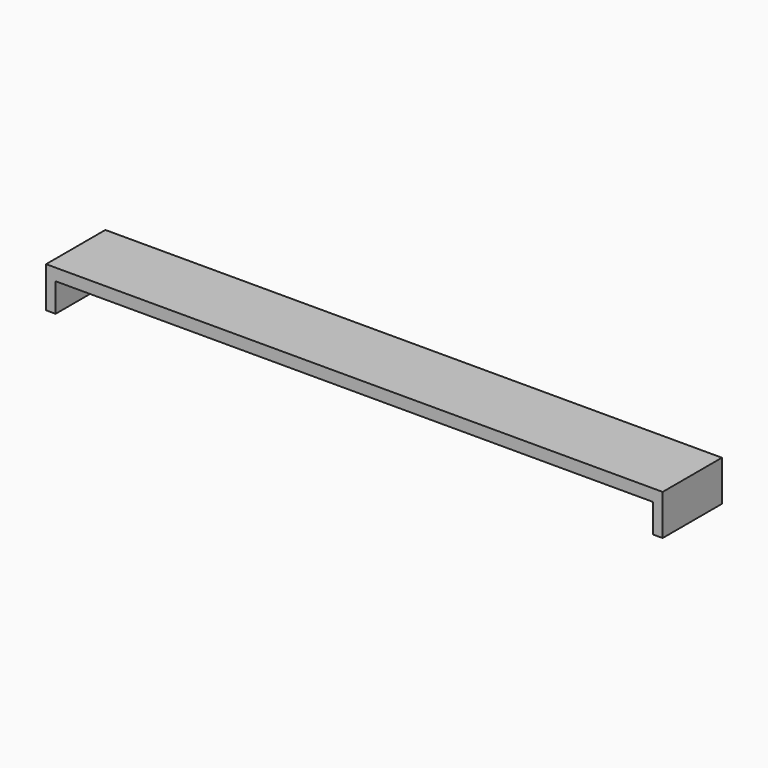
from build123d import *

# Parameters (mm, degrees)
F0_W     = 2
F0_H     = 15.5
F0_W_2   = 125
F1_DEPTH = 2.5
F2_DEPTH = 6


with BuildPart() as f1:
    # F0 (on Top) → F1 (new body)
    with BuildSketch(Plane.XY):
        with Locations((63.5, 0)):
            Rectangle(F0_W, F0_H)
        Rectangle(F0_W_2, F0_H)
        with Locations((-63.5, 0)):
            Rectangle(F0_W, F0_H)
    extrude(amount=F1_DEPTH)

    # F0 (on Top) → F2 (join)
    with BuildSketch(Plane.XY):
        with Locations((-63.5, 0)):
            Rectangle(F0_W, F0_H)
        with Locations((63.5, 0)):
            Rectangle(F0_W, F0_H)
    extrude(amount=-F2_DEPTH)


solid = f1.part
